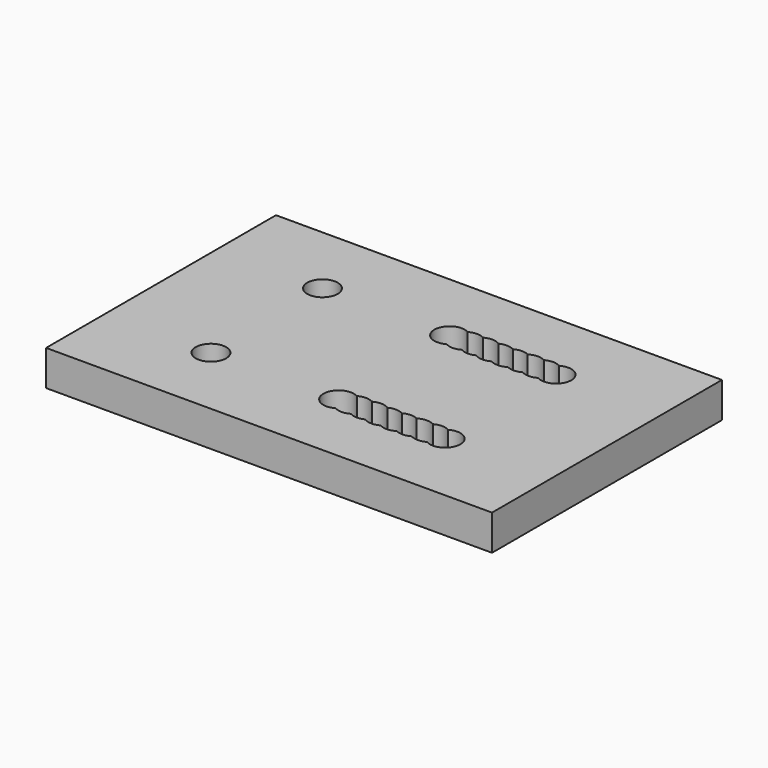
from build123d import *

# Parameters (mm, degrees)
F0_W     = 31.5
F0_H     = 20.3
F0_R     = 1.075
F1_DEPTH = 2.5


with BuildPart() as f1:
    # F0 (on Top) → F1 (new body)
    with BuildSketch(Plane.XY):
        with Locations((-1.732059, -2.473924)):
            Rectangle(F0_W, F0_H)
        with Locations((-10.021099, -7.393924)):
            Circle(F0_R, mode=Mode.SUBTRACT)
        with BuildLine():
            ThreePointArc((5.941401, -6.411428), (7.016401, -6.411428), (7.553901, -7.342405))
            ThreePointArc((7.553901, -7.342405), (7.016401, -8.273382), (5.941401, -8.273382))
            ThreePointArc((5.941401, -8.273382), (5.403901, -8.417405), (4.866401, -8.273382))
            ThreePointArc((4.866401, -8.273382), (4.354668, -8.417096), (3.836635, -8.298072))
            ThreePointArc((3.836635, -8.298072), (3.280903, -8.468615), (2.717636, -8.324901))
            ThreePointArc((2.717636, -8.324901), (2.15437, -8.468615), (1.598638, -8.298072))
            ThreePointArc((1.598638, -8.298072), (1.080605, -8.417096), (0.568871, -8.273382))
            ThreePointArc((0.568871, -8.273382), (0.031371, -8.417405), (-0.506129, -8.273382))
            ThreePointArc((-0.506129, -8.273382), (-2.118629, -7.342405), (-0.506129, -6.411428))
            ThreePointArc((-0.506129, -6.411428), (0.031371, -6.267405), (0.568871, -6.411428))
            ThreePointArc((0.568871, -6.411428), (1.132138, -6.267714), (1.68787, -6.438257))
            ThreePointArc((1.68787, -6.438257), (2.205903, -6.319232), (2.717636, -6.462946))
            ThreePointArc((2.717636, -6.462946), (3.22937, -6.319232), (3.747402, -6.438257))
            ThreePointArc((3.747402, -6.438257), (4.303134, -6.267714), (4.866401, -6.411428))
            ThreePointArc((4.866401, -6.411428), (5.403901, -6.267405), (5.941401, -6.411428))
        make_face(mode=Mode.SUBTRACT)
        with Locations((-10.021099, 2.456076)):
            Circle(F0_R, mode=Mode.SUBTRACT)
        with BuildLine():
            ThreePointArc((5.941401, 3.387053), (7.016401, 3.387053), (7.553901, 2.456076))
            ThreePointArc((7.553901, 2.456076), (7.016401, 1.525099), (5.941401, 1.525099))
            ThreePointArc((5.941401, 1.525099), (5.403901, 1.381076), (4.866401, 1.525099))
            ThreePointArc((4.866401, 1.525099), (4.354668, 1.381385), (3.836635, 1.500409))
            ThreePointArc((3.836635, 1.500409), (3.280903, 1.329867), (2.717636, 1.47358))
            ThreePointArc((2.717636, 1.47358), (2.15437, 1.329867), (1.598638, 1.500409))
            ThreePointArc((1.598638, 1.500409), (1.080605, 1.381385), (0.568871, 1.525099))
            ThreePointArc((0.568871, 1.525099), (0.031371, 1.381076), (-0.506129, 1.525099))
            ThreePointArc((-0.506129, 1.525099), (-2.118629, 2.456076), (-0.506129, 3.387053))
            ThreePointArc((-0.506129, 3.387053), (0.031371, 3.531076), (0.568871, 3.387053))
            ThreePointArc((0.568871, 3.387053), (1.132138, 3.530767), (1.68787, 3.360225))
            ThreePointArc((1.68787, 3.360225), (2.205903, 3.479249), (2.717636, 3.335535))
            ThreePointArc((2.717636, 3.335535), (3.22937, 3.479249), (3.747402, 3.360225))
            ThreePointArc((3.747402, 3.360225), (4.303134, 3.530767), (4.866401, 3.387053))
            ThreePointArc((4.866401, 3.387053), (5.403901, 3.531076), (5.941401, 3.387053))
        make_face(mode=Mode.SUBTRACT)
    extrude(amount=F1_DEPTH)


solid = f1.part
